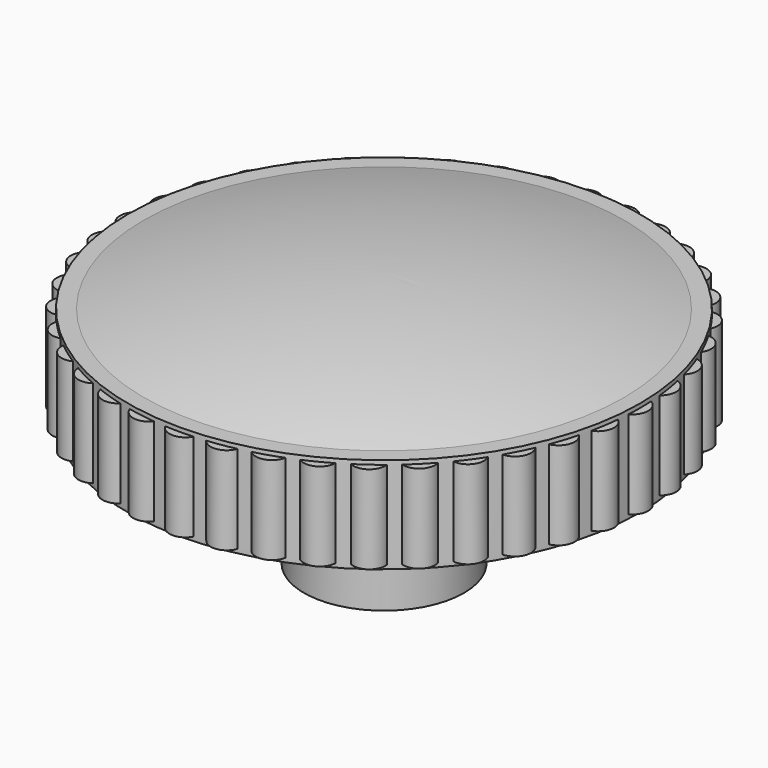
from build123d import *

# Parameters (mm, degrees)
CYLINDER001_R      = 1
CYLINDER001_DEPTH  = 5.5
POLARPATTERN_COUNT = 40


with BuildPart() as part:
    # Sketch014 → Revolution (revolve)
    with BuildSketch(Plane.XZ):
        with BuildLine():
            Line((0, 3), (1.5, 3))
            Line((1.5, 3), (1.5, -2))
            Line((1.5, -2), (5, -2))
            Line((5, -2), (5, 6))
            Line((5, 6), (16, 6))
            Line((16, 6), (16, 12))
            Line((16, 12), (15, 12))
            ThreePointArc((15, 12), (7.566373, 13.497797), (0, 14))
            Line((0, 14), (0, 3))
        make_face()
    revolve(axis=Axis((0, 0, 0), (0, 0, 1)))

    # Cylinder001 → Cylinder001 (join)
    with BuildSketch(Plane(origin=(15.5, 0, 6.25), x_dir=(1, 0, 0), z_dir=(0, 0, 1))):
        Circle(CYLINDER001_R)
    cylinder001 = extrude(amount=CYLINDER001_DEPTH)

    # PolarPattern: Cylinder001 ×40 about axis
    polarpattern_axis = Axis((0, 0, 0), (0, 0, 1))
    for i in range(1, POLARPATTERN_COUNT):
        add(cylinder001.rotate(polarpattern_axis, i * 360 / POLARPATTERN_COUNT))


with BuildPart() as part_1:
    # Body008 placement: moved
    add(part.part.moved(Location((0, 0, 35))))


solid = part_1.part
